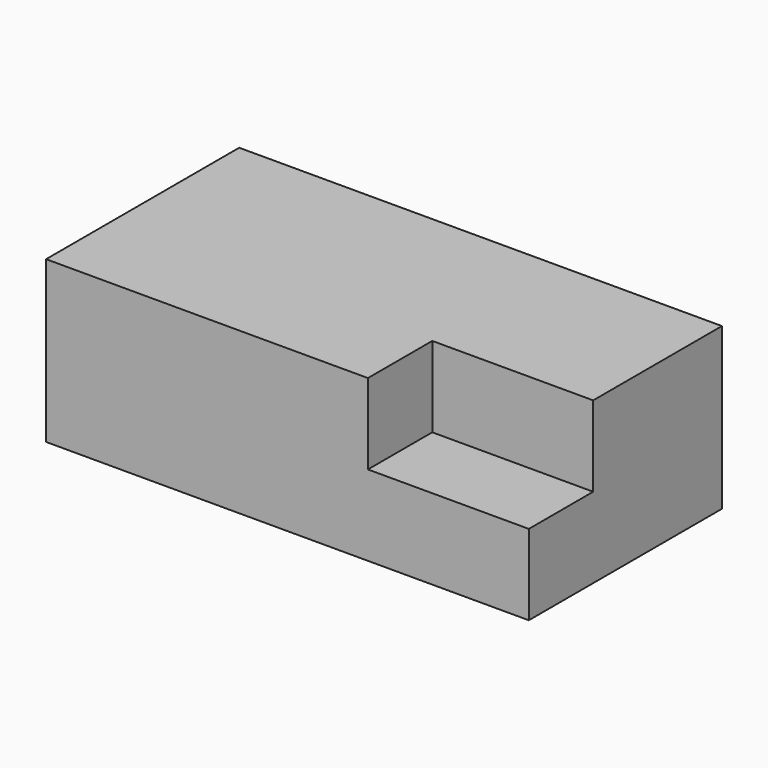
from build123d import *

# Parameters (mm, degrees)
F0_W     = 152.4
F0_H     = 50.8
F1_DEPTH = 38.1
F2_W     = 25.4
F2_H     = 25.4
F3_DEPTH = 50.8


with BuildPart() as f1:
    # F0 (on Front) → F1 (new body, symmetric)
    with BuildSketch(Plane.XZ):
        with Locations((76.2, 25.4)):
            Rectangle(F0_W, F0_H)
    extrude(amount=F1_DEPTH, both=True)

    # F2 (on face) → F3 (cut)
    with BuildSketch(Plane.YZ.offset(152.4)):
        with Locations((-25.4, 38.1)):
            Rectangle(F2_W, F2_H)
    extrude(amount=-F3_DEPTH, mode=Mode.SUBTRACT)


solid = f1.part
